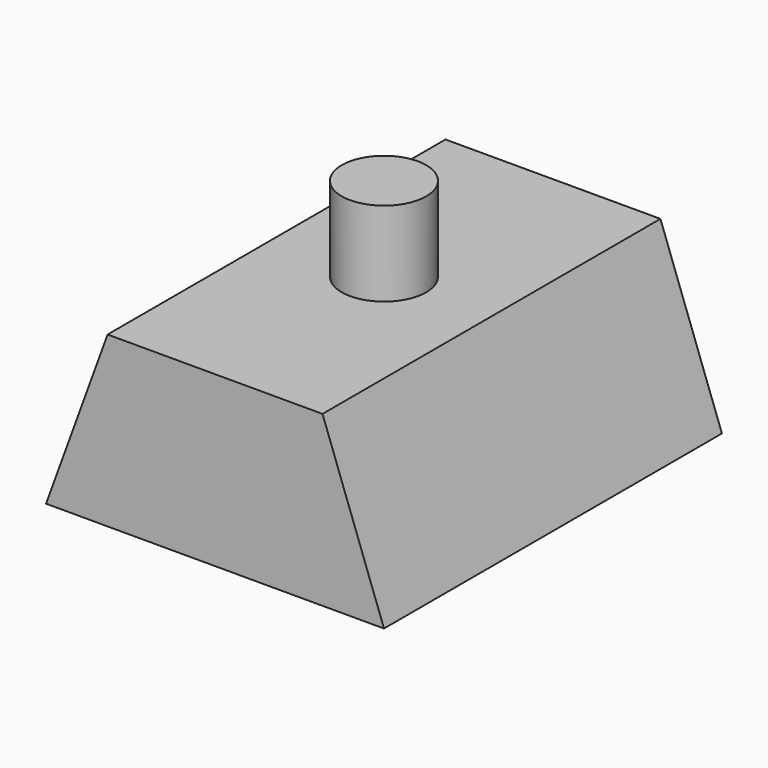
from build123d import *

# Parameters (mm, degrees)
F1_DEPTH = 25
F2_R     = 2.5
F3_DEPTH = 15


with BuildPart() as f1:
    # F0 (on Front) → F1 (new body)
    with BuildSketch(Plane.XZ):
        Polygon((3.64, 10), (0, 0), (20, 0), (16.36, 10), (10, 10), align=None)
    extrude(amount=F1_DEPTH)

    # F2 (on Top) → F3 (join)
    with BuildSketch(Plane.XY):
        with Locations((10, -12.5)):
            Circle(F2_R)
    extrude(amount=F3_DEPTH)


solid = f1.part
